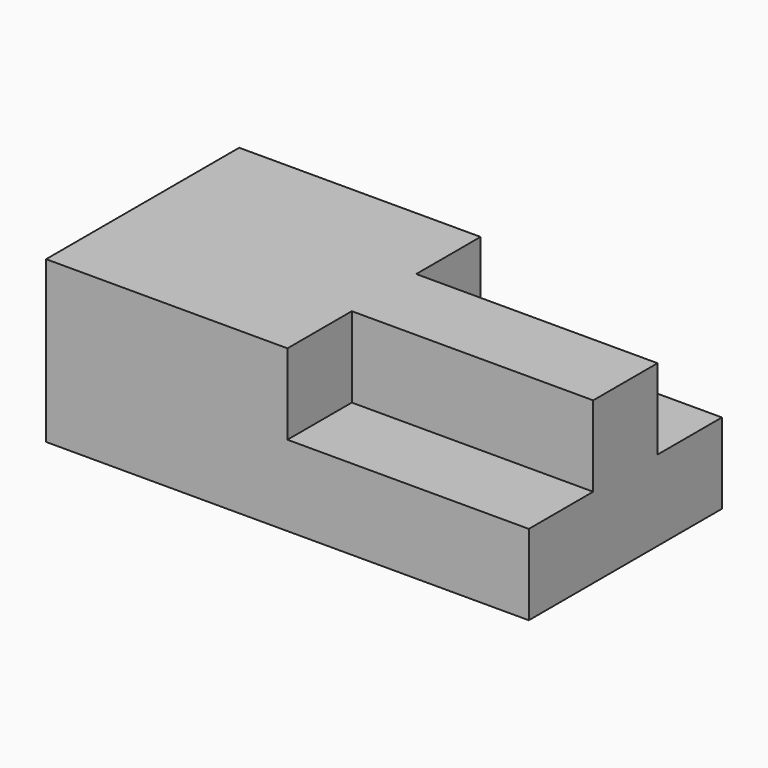
from build123d import *

# Parameters (mm, degrees)
F1_DEPTH = 50.8
F0_W     = 76.2
F0_H     = 25.4
F2_DEPTH = 25.4


with BuildPart() as f1:
    # F0 (on Top) → F1 (new body)
    with BuildSketch(Plane.XY):
        Polygon((7.2523672134, 33.3039297216), (-68.9476327866, 33.3039297216), (-68.9476327866, -42.8960702784), (7.2523672134, -42.8960702784), (7.2523672134, -17.4960702784), (83.4523672134, -17.4960702784), (83.4523672134, 7.9039297216), (7.2523672134, 7.9039297216), align=None)
    extrude(amount=F1_DEPTH)

    # F0 (on Top) → F2 (join)
    with BuildSketch(Plane.XY):
        Polygon((7.2523672134, 33.3039297216), (-68.9476327866, 33.3039297216), (-68.9476327866, -42.8960702784), (7.2523672134, -42.8960702784), (7.2523672134, -17.4960702784), (83.4523672134, -17.4960702784), (83.4523672134, 7.9039297216), (7.2523672134, 7.9039297216), align=None)
        with Locations((45.3523672134, 20.6039297216)):
            Rectangle(F0_W, F0_H)
        with Locations((45.3523672134, -30.1960702784)):
            Rectangle(F0_W, F0_H)
    extrude(amount=F2_DEPTH)


solid = f1.part
